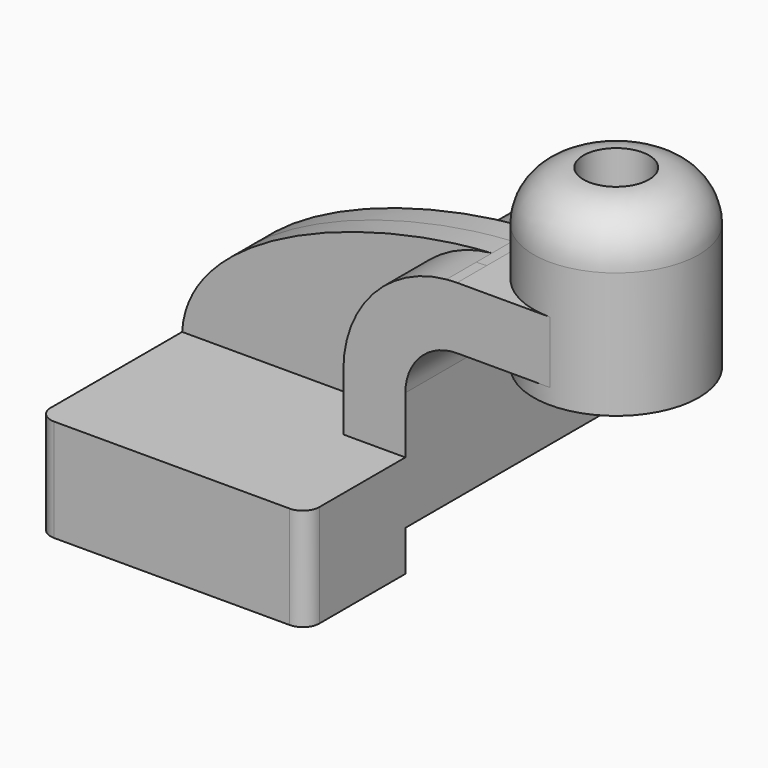
from build123d import *

# Parameters (mm, degrees)
F1_DEPTH  = 63.5
F0_W      = 25.4
F0_H      = 19.05
F2_DEPTH  = 25.4
F3_DEPTH  = 7.9375
F5_R      = 5.08
F6_W      = 26.3075064868
F6_H      = 15.7644152641
F7_DEPTH  = 31.496
F8_DEPTH  = 33.274
F9_DEPTH  = 25.4
F10_R     = 15.3302561211
F11_DEPTH = 11.43
F12_DEPTH = 106.172


with BuildPart() as f1:
    # F0 (on Front) → F1 (new body, symmetric)
    with BuildSketch(Plane.XZ):
        Polygon((22.225, 9.525), (-41.275, 9.525), (-41.275, -9.525), (41.275, -9.525), (41.275, 9.525), align=None)
    extrude(amount=F1_DEPTH, both=True)

    # F0 (on Front) → F2 (join, symmetric)
    with BuildSketch(Plane.XZ):
        with BuildLine():
            Line((22.225, 27.0002), (22.225, 9.525))
            Line((22.225, 9.525), (41.275, 9.525))
            Line((41.275, 9.525), (41.275, 27.0002))
            ThreePointArc((41.275, 27.0002), (45.9246798487, 38.2255201513), (57.15, 42.8752))
            Line((57.15, 42.8752), (60.325, 42.8752))
            Line((60.325, 42.8752), (60.325, 61.9252))
            Line((60.325, 61.9252), (57.15, 61.9252))
            add(Edge.make_bspline(
                [(53.8854342407, 61.7722898912), (54.9842067368, 61.8365871986), (56.0728453275, 61.8876096574), (57.15, 61.9252)],
                knots=[108.5245810491, 108.5245810491, 108.5245810491, 108.5245810491, 111.5045361635, 111.5045361635, 111.5045361635, 111.5045361635], degree=3))
            ThreePointArc((53.8854342407, 61.7722898912), (31.3258777096, 50.5133948686), (22.225, 27.0002))
        make_face()
        with Locations((73.025, 52.4002)):
            Rectangle(F0_W, F0_H)
    extrude(amount=F2_DEPTH, both=True)

    # F0 (on Front) → F3 (join, symmetric)
    with BuildSketch(Plane.XZ):
        with BuildLine():
            add(Edge.make_bspline(
                [(-41.275, 9.525), (-39.5856284224, 39.4828766469), (13.870125209, 59.4306981306), (53.8854342407, 61.7722898912)],
                knots=[0, 0, 0, 0, 108.5245810491, 108.5245810491, 108.5245810491, 108.5245810491], degree=3))
            Line((-41.275, 9.525), (22.225, 9.525))
            Line((22.225, 9.525), (22.225, 27.0002))
            ThreePointArc((22.225, 27.0002), (31.3258777096, 50.5133948686), (53.8854342407, 61.7722898912))
        make_face()
    extrude(amount=F3_DEPTH, both=True)

    # F0 (on Front) → F4 (revolve)
    with BuildSketch(Plane.XZ):
        Polygon((85.725, 66.675), (85.725, 61.9252), (85.725, 42.8752), (85.725, 38.1), (111.125, 38.1), (111.125, 66.675), align=None)
    revolve(axis=Axis((85.725, 0, 52.3875), (0, 0, 1)))

    # F5
    f5_edges = [f1.edges().sort_by_distance(p)[0] for p in [
        (41.275, -63.5, 0),
        (-41.275, -63.5, 0),
        (41.275, 63.5, 0),
        (-41.275, 63.5, 0),
    ]]
    fillet(f5_edges, radius=F5_R)

    # F6 (on face) → F7 (join)
    with BuildSketch(Plane.XY.offset(9.525)):
        with BuildLine():
            ThreePointArc((36.195, -63.5), (39.7871024484, -62.0121024484), (41.275, -58.42))
            Line((41.275, -58.42), (41.275, -25.4))
            Line((41.275, -25.4), (22.225, -25.4))
            Line((22.225, -25.4), (22.225, -7.9375))
            Line((22.225, -7.9375), (-41.275, -7.9375))
            Line((-41.275, -7.9375), (-41.275, -58.42))
            ThreePointArc((-41.275, -58.42), (-39.7871024484, -62.0121024484), (-36.195, -63.5))
            Line((-36.195, -63.5), (36.195, -63.5))
        make_face()
        with Locations((0.0332780182, -33.4311127663)):
            Rectangle(F6_W, F6_H, mode=Mode.SUBTRACT)
        with Locations((0.0332780182, -33.4311127663)):
            Rectangle(F6_W, F6_H)
    extrude(amount=-F7_DEPTH)

    # F8 (add): a face of the model
    f8_faces = [f1.faces().sort_by_distance(p)[0] for p in [
        (0, -63.5, -6.223),
    ]]
    extrude(f8_faces, amount=-F8_DEPTH)

    # F9 (add): a face of the model
    f9_faces = [f1.faces().sort_by_distance(p)[0] for p in [
        (85.725, 0, 66.675),
    ]]
    extrude(f9_faces, amount=F9_DEPTH)

    # F10
    f10_edges = [f1.edges().sort_by_distance(p)[0] for p in [
        (60.325, 0, 92.075),
    ]]
    fillet(f10_edges, radius=F10_R)

    # F11 (add): a face of the model
    f11_faces = [f1.faces().sort_by_distance(p)[0] for p in [
        (48.8772671015, -25.4, 41.5257592525),
    ]]
    extrude(f11_faces, amount=-F11_DEPTH)

    # F12 (cut): a face of the model
    f12_faces = [f1.faces().sort_by_distance(p)[0] for p in [
        (85.725, 0, 92.075),
    ]]
    extrude(f12_faces, amount=-F12_DEPTH, mode=Mode.SUBTRACT)


solid = f1.part
